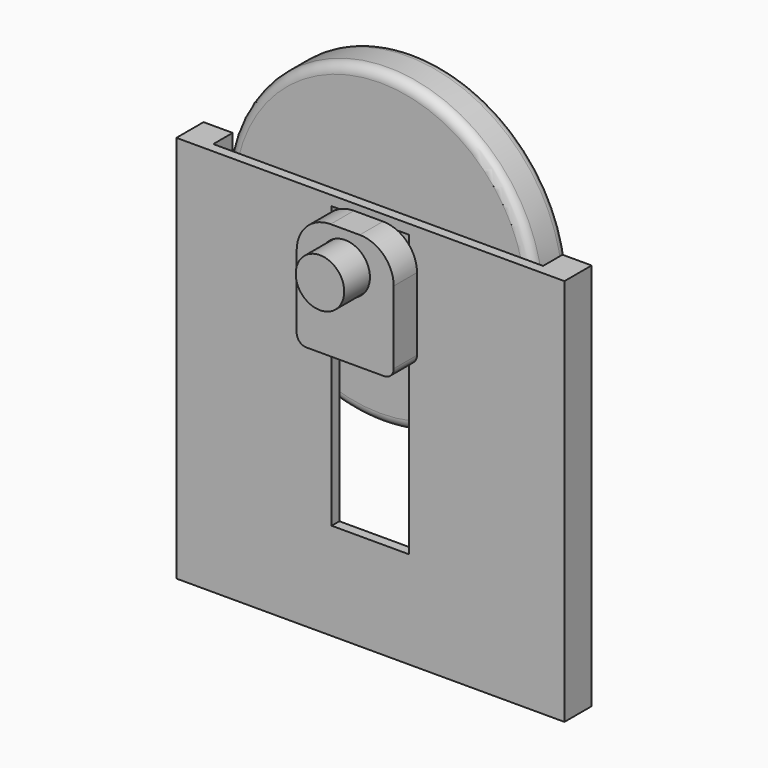
from build123d import *

# Parameters (mm, degrees)
F0_R      = 16
F0_R_2    = 2.5
F1_DEPTH  = 2.25
F2_R      = 2.5
F3_DEPTH  = 10
F5_W      = 10
F5_H      = 12
F5_R      = 2.55
F6_DEPTH  = 3
F7_R      = 3.5
F8_R      = 1
F8_2_R    = 1
F10_DEPTH = 2.5
F11_W     = 8
F11_H     = 1
F12_DEPTH = 1


with BuildPart() as f1:
    # F0 (on Front) → F1 (new body, symmetric)
    with BuildSketch(Plane.XZ):
        Circle(F0_R)
        Circle(F0_R_2, mode=Mode.SUBTRACT)
    extrude(amount=F1_DEPTH, both=True)

    # F8
    f8_edges = [f1.edges().sort_by_distance(p)[0] for p in [
        (-16, -2.25, 0),
        (-16, 2.25, 0),
    ]]
    fillet(f8_edges, radius=F8_R)


with BuildPart() as f3:
    # F2 (on Front) → F3 (new body, symmetric)
    with BuildSketch(Plane.XZ):
        Circle(F2_R)
    extrude(amount=F3_DEPTH, both=True)


with BuildPart() as f6:
    # F5 (on offset) → F6 (new body)
    with BuildSketch(Plane.XZ.offset(3.75)):
        with Locations((0, -2.5)):
            Rectangle(F5_W, F5_H)
        Circle(F5_R, mode=Mode.SUBTRACT)
    extrude(amount=F6_DEPTH)

    # F7
    f7_edges = [f6.edges().sort_by_distance(p)[0] for p in [
        (-5, -5.25, 3.5),
        (5, -5.25, 3.5),
    ]]
    fillet(f7_edges, radius=F7_R)

    # F8#2
    f8_2_edges = [f6.edges().sort_by_distance(p)[0] for p in [
        (5, -5.25, -8.5),
        (-5, -5.25, -8.5),
    ]]
    fillet(f8_2_edges, radius=F8_2_R)


with BuildPart() as f10:
    # F9 (on Front) → F10 (new body)
    with BuildSketch(Plane.XZ):
        with BuildLine():
            Line((20, -36), (20, 4))
            Line((20, 4), (17, 4))
            Line((17, 4), (17, -16))
            ThreePointArc((17, -16), (12.606602, -26.606602), (2, -31))
            Line((2, -31), (-2, -31))
            ThreePointArc((-2, -31), (-12.606602, -26.606602), (-17, -16))
            Line((-17, -16), (-17, 4))
            Line((-17, 4), (-20, 4))
            Line((-20, 4), (-20, -36))
            Line((-20, -36), (20, -36))
        make_face()
    extrude(amount=F10_DEPTH)

    # F11 (on face) → F12 (join)
    with BuildSketch(Plane.XZ.offset(2.5)):
        with BuildLine():
            Line((-17, 4), (-20, 4))
            Line((-20, 4), (-20, -36))
            Line((-20, -36), (20, -36))
            Line((20, -36), (20, 4))
            Line((20, 4), (17, 4))
            Line((17, 4), (17, -16))
            ThreePointArc((17, -16), (12.606602, -26.606602), (2, -31))
            Line((2, -31), (-2, -31))
            ThreePointArc((-2, -31), (-12.606602, -26.606602), (-17, -16))
            Line((-17, -16), (-17, 4))
        make_face()
        with BuildLine():
            Line((-4, 4), (-17, 4))
            Line((-17, 4), (-17, -16))
            ThreePointArc((-17, -16), (-12.606602, -26.606602), (-2, -31))
            Line((-2, -31), (2, -31))
            ThreePointArc((2, -31), (12.606602, -26.606602), (17, -16))
            Line((17, -16), (17, 4))
            Line((17, 4), (4, 4))
            Line((4, 4), (4, 3))
            Line((4, 3), (4, -26))
            Line((4, -26), (-4, -26))
            Line((-4, -26), (-4, 3))
            Line((-4, 3), (-4, 4))
        make_face()
        with Locations((0, 3.5)):
            Rectangle(F11_W, F11_H)
    extrude(amount=F12_DEPTH)


solid = Compound([f1.part, f3.part, f6.part, f10.part])
